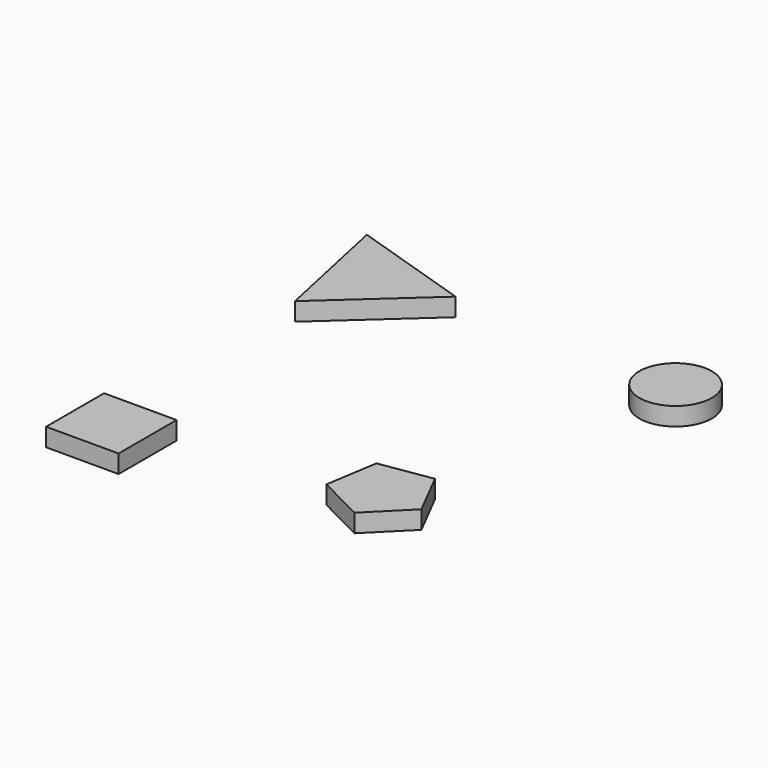
from build123d import *

# Parameters (mm, degrees)
F0_W     = 4
F0_H     = 4
F0_R     = 2
F1_DEPTH = 1


with BuildPart() as f1:
    # F0 (on Top) → F1 (new body)
    with BuildSketch(Plane.XY):
        Polygon((-34.459056, 6.414633), (-29.321544, 11.062855), (-35.915778, 13.18796), align=None)
        with Locations((-33.514615, -7.433796)):
            Rectangle(F0_W, F0_H)
        Polygon((-20.133358, -7.40371), (-18.078385, -5.348738), (-19.397759, -2.759321), (-22.268149, -3.213946), (-22.722775, -6.084337), align=None)
        with Locations((-16.79552, 10.578586)):
            Circle(F0_R)
    extrude(amount=F1_DEPTH)


solid = f1.part
